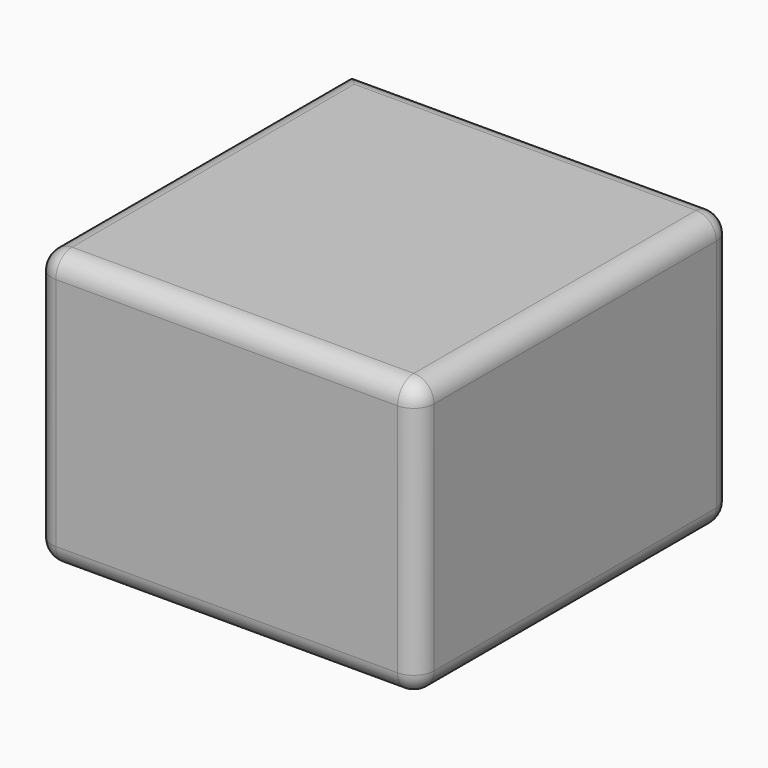
from build123d import *

# Parameters (mm, degrees)
F0_W     = 95.803171
F0_H     = 98.558307
F1_DEPTH = 69.041213
F2_R     = 5.08


with BuildPart() as f1:
    # F0 (on Top) → F1 (new body)
    with BuildSketch(Plane.XY):
        with Locations((47.901585, 49.279153)):
            Rectangle(F0_W, F0_H)
    extrude(amount=F1_DEPTH)

    # F2
    f2_edges = [f1.edges().sort_by_distance(p)[0] for p in [
        (47.901586, 0, 69.041213),
        (95.803171, 49.279153, 69.041213),
        (47.901586, 98.558307, 69.041213),
        (0, 49.279153, 69.041213),
        (95.803171, 0, 34.520607),
        (0, 0, 34.520607),
        (95.803171, 98.558307, 34.520607),
        (47.901586, 0, 0),
        (95.803171, 49.279153, 0),
        (47.901586, 98.558307, 0),
        (0, 49.279153, 0),
    ]]
    fillet(f2_edges, radius=F2_R)


solid = f1.part
